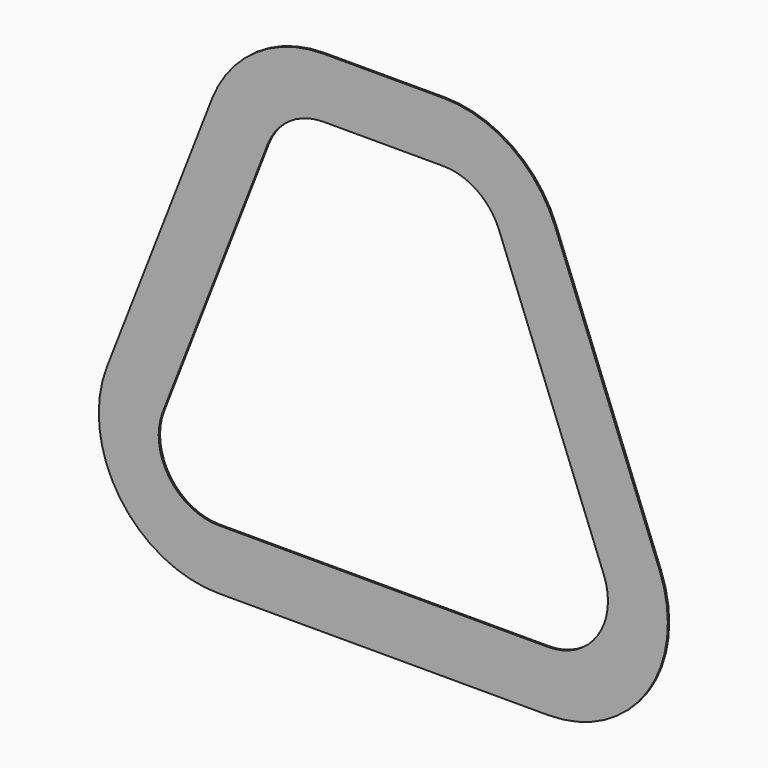
from build123d import *

# Parameters (mm, degrees)
F1_DEPTH = 0.28125


with BuildPart() as f1:
    # F0 (on Front) → F1 (new body)
    with BuildSketch(Plane.XZ):
        with BuildLine():
            ThreePointArc((-46.140093, -17.751075), (-44.007248, -36.292066), (-27.5, -45))
            Line((-27.5, -45), (27.5, -45))
            ThreePointArc((27.5, -45), (44.007248, -36.292066), (46.140093, -17.751075))
            Line((46.140093, -17.751075), (28.640093, 27.248925))
            ThreePointArc((28.640093, 27.248925), (21.292066, 36.507248), (10, 40))
            Line((10, 40), (0, 40))
            Line((0, 40), (-10, 40))
            ThreePointArc((-10, 40), (-21.292066, 36.507248), (-28.640093, 27.248925))
            Line((-28.640093, 27.248925), (-46.140093, -17.751075))
        make_face()
        with BuildLine():
            Line((-10, 30), (0, 30))
            Line((0, 30), (10, 30))
            ThreePointArc((10, 30), (15.646033, 28.253624), (19.320047, 23.624463))
            Line((19.320047, 23.624463), (36.820047, -21.375537))
            ThreePointArc((36.820047, -21.375537), (35.753624, -30.646033), (27.5, -35))
            Line((27.5, -35), (-27.5, -35))
            ThreePointArc((-27.5, -35), (-35.753624, -30.646033), (-36.820047, -21.375537))
            Line((-36.820047, -21.375537), (-19.320047, 23.624463))
            ThreePointArc((-19.320047, 23.624463), (-15.646033, 28.253624), (-10, 30))
        make_face(mode=Mode.SUBTRACT)
    extrude(amount=F1_DEPTH)


solid = f1.part
